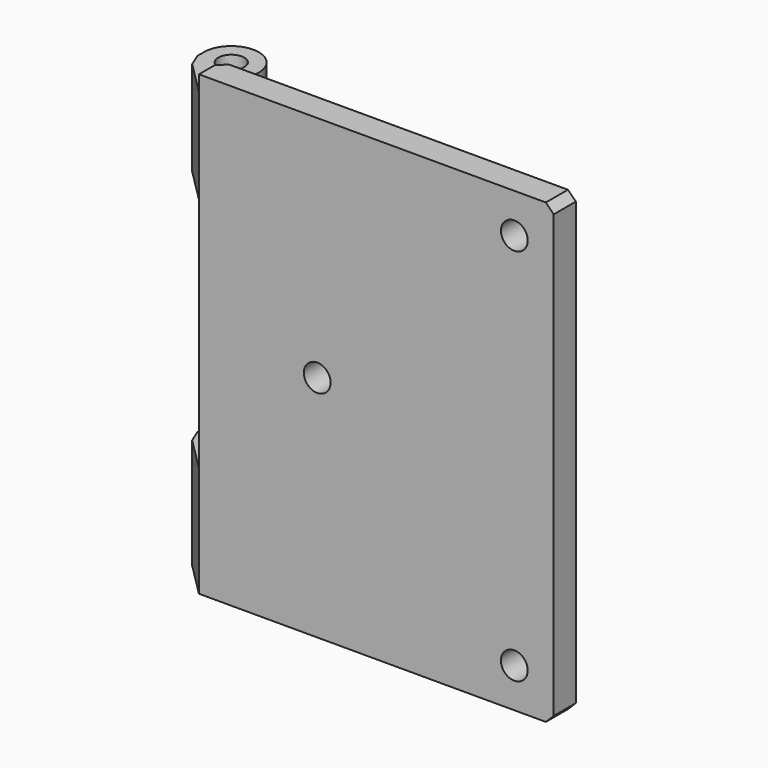
from build123d import *

# Parameters (mm, degrees)
CYLINDER047_R            = 1.7
CYLINDER047_DEPTH        = 10
CYLINDER048_R            = 1.7
CYLINDER048_DEPTH        = 10
CYLINDER049_R            = 1.7
CYLINDER049_DEPTH        = 10
CYLINDER042_R            = 1.5
CYLINDER042_DEPTH        = 15
CYLINDER039_R            = 3.5
CYLINDER039_DEPTH        = 14
BOX051037_W              = 7
BOX051037_H              = 6.5
BOX051037_DEPTH          = 14
CHAMFER034005002044_SIZE = 5
CHAMFER034005002046_SIZE = 1
BOX051036_W              = 45
BOX051036_H              = 3.5
BOX051036_DEPTH          = 58
CHAMFER034005002047_SIZE = 1
BOX051042_W              = 10
BOX051042_H              = 24
BOX051042_DEPTH          = 10
CYLINDER041_R            = 1.65
CYLINDER041_DEPTH        = 15
BOX051038_W              = 7
BOX051038_H              = 6.5
BOX051038_DEPTH          = 14
CHAMFER034005002043_SIZE = 5
CHAMFER034005002045_SIZE = 1
CYLINDER040_R            = 3.5
CYLINDER040_DEPTH        = 14
CHAMFER034005002048_SIZE = 1


with BuildPart() as cylinder047:
    # Cylinder047 → Cylinder047 (new body)
    with BuildSketch(Plane(origin=(45, 0, 5), x_dir=(1, 0, 0), z_dir=(0, -1, 0))):
        Circle(CYLINDER047_R)
    extrude(amount=CYLINDER047_DEPTH)


with BuildPart() as cylinder048:
    # Cylinder048 → Cylinder048 (new body)
    with BuildSketch(Plane(origin=(45, 0, 53), x_dir=(1, 0, 0), z_dir=(0, -1, 0))):
        Circle(CYLINDER048_R)
    extrude(amount=CYLINDER048_DEPTH)


with BuildPart() as fusion021005009027:
    # Cylinder049 → Cylinder049 (new body)
    with BuildSketch(Plane(origin=(20, 0, 29), x_dir=(1, 0, 0), z_dir=(0, -1, 0))):
        Circle(CYLINDER049_R)
    extrude(amount=CYLINDER049_DEPTH)

    # Fusion021005009027: union Cylinder047, Cylinder048
    add(cylinder047.part)
    add(cylinder048.part)


with BuildPart() as cylinder042:
    # Cylinder042 → Cylinder042 (new body)
    with BuildSketch(Plane(origin=(3.5, -0.5, 0), x_dir=(1, 0, 0), z_dir=(0, 0, 1))):
        Circle(CYLINDER042_R)
    extrude(amount=CYLINDER042_DEPTH)


with BuildPart() as cylinder039:
    # Cylinder039 → Cylinder039 (new body)
    with BuildSketch(Plane(origin=(3.5, -0.5, 0), x_dir=(1, 0, 0), z_dir=(0, 0, 1))):
        Circle(CYLINDER039_R)
    extrude(amount=CYLINDER039_DEPTH)


with BuildPart() as cut018011002021:
    # Box051037 → Box051037 (new body)
    with BuildSketch(Plane(origin=(0, -7.5, 0), x_dir=(1, 0, 0), z_dir=(0, 0, 1))):
        with Locations((3.5, 3.25)):
            Rectangle(BOX051037_W, BOX051037_H)
    extrude(amount=BOX051037_DEPTH)

    # Chamfer034005002044
    chamfer034005002044_edges = [cut018011002021.edges().sort_by_distance(p)[0] for p in [
        (0, -7.5, 7),
    ]]
    chamfer(chamfer034005002044_edges, length=CHAMFER034005002044_SIZE)

    # Chamfer034005002046
    chamfer034005002046_edges = [cut018011002021.edges().sort_by_distance(p)[0] for p in [
        (0, -2.5, 7),
    ]]
    chamfer(chamfer034005002046_edges, length=CHAMFER034005002046_SIZE)

    # Fusion021005009025: union Cylinder039
    add(cylinder039.part)

    # Cut018011002021: cut Cylinder042
    add(cylinder042.part, mode=Mode.SUBTRACT)


with BuildPart() as chamfer034005002047:
    # Box051036 → Box051036 (new body)
    with BuildSketch(Plane(origin=(5, -7.5, 0), x_dir=(1, 0, 0), z_dir=(0, 0, 1))):
        with Locations((22.5, 1.75)):
            Rectangle(BOX051036_W, BOX051036_H)
    extrude(amount=BOX051036_DEPTH)

    # Chamfer034005002047
    chamfer034005002047_edges = [chamfer034005002047.edges().sort_by_distance(p)[0] for p in [
        (5, -4, 29),
    ]]
    chamfer(chamfer034005002047_edges, length=CHAMFER034005002047_SIZE)


with BuildPart() as cube099:
    # Box051042 → Box051042 (new body)
    with BuildSketch(Plane(origin=(-1.5, -9.5, 56), x_dir=(1, 0, 0), z_dir=(0, 0, 1))):
        with Locations((5, 12)):
            Rectangle(BOX051042_W, BOX051042_H)
    extrude(amount=BOX051042_DEPTH)


with BuildPart() as cylinder041:
    # Cylinder041 → Cylinder041 (new body)
    with BuildSketch(Plane(origin=(3.5, -0.5, 43.5), x_dir=(1, 0, 0), z_dir=(0, 0, 1))):
        Circle(CYLINDER041_R)
    extrude(amount=CYLINDER041_DEPTH)


with BuildPart() as chamfer034005002045:
    # Box051038 → Box051038 (new body)
    with BuildSketch(Plane(origin=(0, -7.5, 44), x_dir=(1, 0, 0), z_dir=(0, 0, 1))):
        with Locations((3.5, 3.25)):
            Rectangle(BOX051038_W, BOX051038_H)
    extrude(amount=BOX051038_DEPTH)

    # Chamfer034005002043
    chamfer034005002043_edges = [chamfer034005002045.edges().sort_by_distance(p)[0] for p in [
        (0, -7.5, 51),
    ]]
    chamfer(chamfer034005002043_edges, length=CHAMFER034005002043_SIZE)

    # Chamfer034005002045
    chamfer034005002045_edges = [chamfer034005002045.edges().sort_by_distance(p)[0] for p in [
        (0, -2.5, 51),
    ]]
    chamfer(chamfer034005002045_edges, length=CHAMFER034005002045_SIZE)


with BuildPart() as chamfer034005002048:
    # Cylinder040 → Cylinder040 (new body)
    with BuildSketch(Plane(origin=(3.5, -0.5, 44), x_dir=(1, 0, 0), z_dir=(0, 0, 1))):
        Circle(CYLINDER040_R)
    extrude(amount=CYLINDER040_DEPTH)

    # Fusion021005009024: union Chamfer034005002045
    add(chamfer034005002045.part)

    # Cut018011002020: cut Cylinder041
    add(cylinder041.part, mode=Mode.SUBTRACT)

    # Cut018011002022: cut Cube099
    add(cube099.part, mode=Mode.SUBTRACT)

    # Fusion021005009028: union Cut018011002021, Chamfer034005002047
    add(cut018011002021.part)
    add(chamfer034005002047.part)

    # Cut018011002023: cut Fusion021005009027
    add(fusion021005009027.part, mode=Mode.SUBTRACT)

    # Chamfer034005002048
    chamfer034005002048_edges = [chamfer034005002048.edges().sort_by_distance(p)[0] for p in [
        (50, -5.75, 0),
        (50, -5.75, 58),
    ]]
    chamfer(chamfer034005002048_edges, length=CHAMFER034005002048_SIZE)


solid = chamfer034005002048.part
